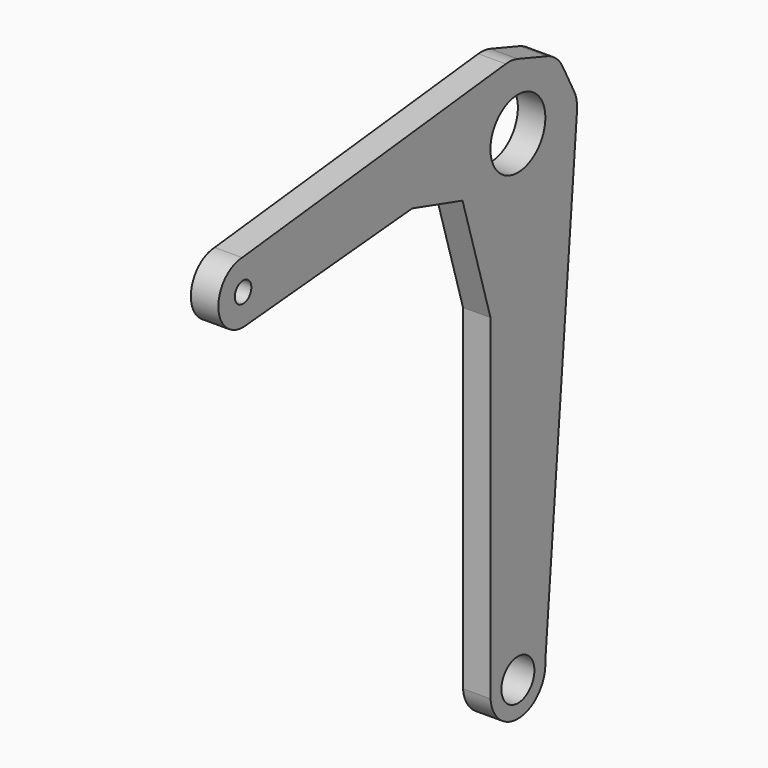
from build123d import *

# Parameters (mm, degrees)
F0_R     = 3
F0_R_2   = 1.5
F0_R_3   = 5
F1_DEPTH = 4


with BuildPart() as f1:
    # F0 (on Right) → F1 (new body)
    with BuildSketch(Plane.YZ):
        with BuildLine():
            Line((-2.213923, 9.815771), (-50.172412, 4.496696))
            ThreePointArc((-50.172412, 4.496696), (-54.497093, -0.161719), (-49.848975, -4.497465))
            Line((-49.848975, -4.497465), (-19.228159, -1.781642))
            Line((-19.228159, -1.781642), (-10.071731, -4.497465))
            Line((-10.071731, -4.497465), (-4.982847, -21.569444))
            Line((-4.982847, -21.569444), (-4.982847, -70.413808))
            ThreePointArc((-4.982847, -70.413808), (-0.389649, -74.984794), (4.858025, -71.183044))
            Line((4.858025, -71.183044), (4.987747, -69.650171))
            Line((4.987747, -69.650171), (10.759941, -1.442462))
            ThreePointArc((10.759941, -1.442462), (10.680656, -0.04027), (10.214546, 1.284557))
            Line((10.214546, 1.284557), (8.115582, 5.324077))
            ThreePointArc((8.115582, 5.324077), (6.940309, 6.808469), (5.297374, 7.749453))
            Line((5.297374, 7.749453), (-0.044164, 9.577011))
            ThreePointArc((-0.044164, 9.577011), (-1.115855, 9.816243), (-2.213923, 9.815771))
        make_face()
        with Locations((0, -70)):
            Circle(F0_R, mode=Mode.SUBTRACT)
        with Locations((-50, 0)):
            Circle(F0_R_2, mode=Mode.SUBTRACT)
        Circle(F0_R_3, mode=Mode.SUBTRACT)
        with BuildLine():
            Line((4.987747, -69.650171), (4.858025, -71.183044))
            ThreePointArc((4.858025, -71.183044), (4.982191, -70.421626), (4.987747, -69.650171))
        make_face()
    extrude(amount=F1_DEPTH)


solid = f1.part
